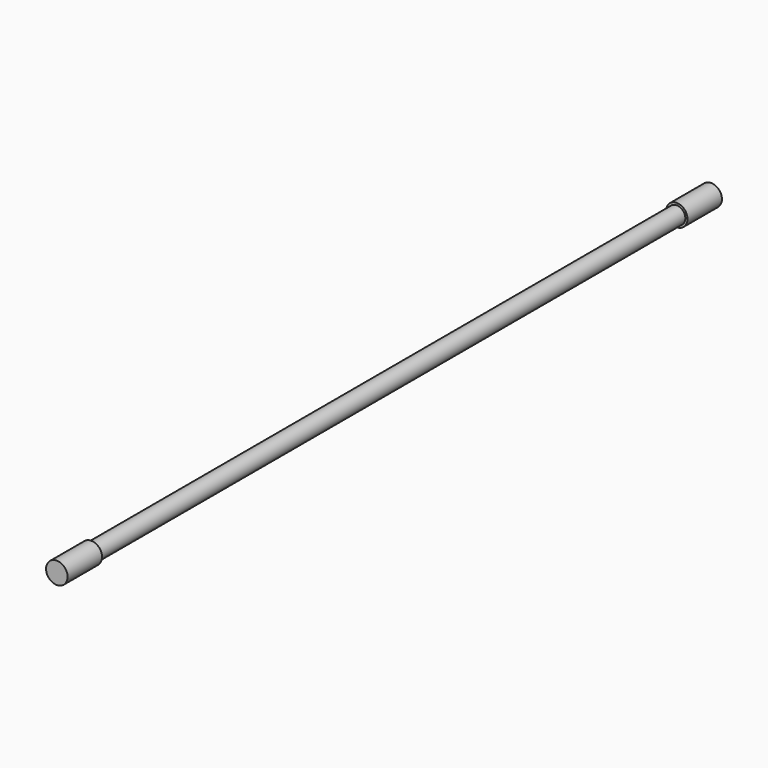
from build123d import *

# Parameters (mm, degrees)
F0_R     = 2.5
F1_DEPTH = 10
F2_R     = 2
F3_DEPTH = 170
F4_R     = 2.5
F4_R_2   = 2
F5_DEPTH = 10


with BuildPart() as f1:
    # F0 (on Front) → F1 (new body)
    with BuildSketch(Plane.XZ):
        Circle(F0_R)
    extrude(amount=-F1_DEPTH)

    # F2 (on face) → F3 (join)
    with BuildSketch(Plane(origin=(0, 10, 0), x_dir=(-1, 0, 0), z_dir=(0, 1, 0))):
        Circle(F2_R)
    extrude(amount=F3_DEPTH)

    # F4 (on face) → F5 (join)
    with BuildSketch(Plane(origin=(0, 180, 0), x_dir=(-1, 0, 0), z_dir=(0, 1, 0))):
        Circle(F4_R)
        Circle(F4_R_2, mode=Mode.SUBTRACT)
        Circle(F4_R_2)
    extrude(amount=F5_DEPTH)


solid = f1.part
